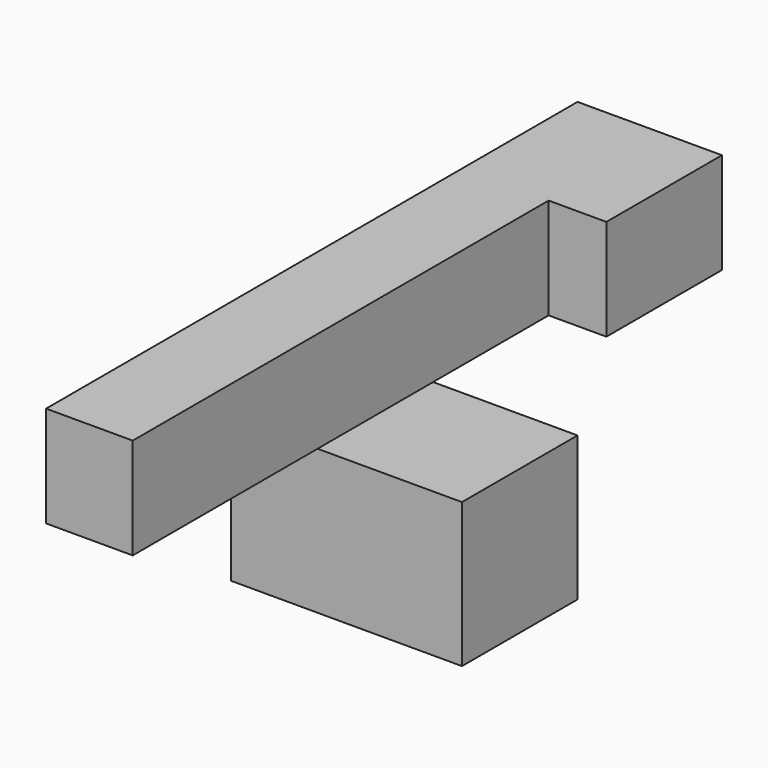
from build123d import *

# Parameters (mm, degrees)
F0_W     = 116.84
F0_H     = 17.78
F1_DEPTH = 15.24
F2_W     = 25.4
F2_H     = 17.78
F3_DEPTH = 10.16
F4_W     = 15.24
F4_H     = 25.4
F5_DEPTH = 25.4
F6_W     = 25.4
F6_H     = 25.4
F7_DEPTH = 25.4


with BuildPart() as f1:
    # F0 (on Right) → F1 (new body)
    with BuildSketch(Plane.YZ):
        with Locations((-0.526623, 44.730002)):
            Rectangle(F0_W, F0_H)
    extrude(amount=-F1_DEPTH)

    # F2 (on face) → F3 (join)
    with BuildSketch(Plane.YZ):
        with Locations((45.193377, 44.730002)):
            Rectangle(F2_W, F2_H)
    extrude(amount=F3_DEPTH)

    # F4 (on face) → F5 (join)
    with BuildSketch(Plane(origin=(0, 0, 35.840002), x_dir=(1, 0, 0), z_dir=(0, 0, -1))):
        with Locations((-7.62, 5.606623)):
            Rectangle(F4_W, F4_H)
    extrude(amount=F5_DEPTH)

    # F6 (on face) → F7 (join)
    with BuildSketch(Plane.YZ):
        with Locations((-5.606623, 23.140002)):
            Rectangle(F6_W, F6_H)
    extrude(amount=F7_DEPTH)


solid = f1.part
